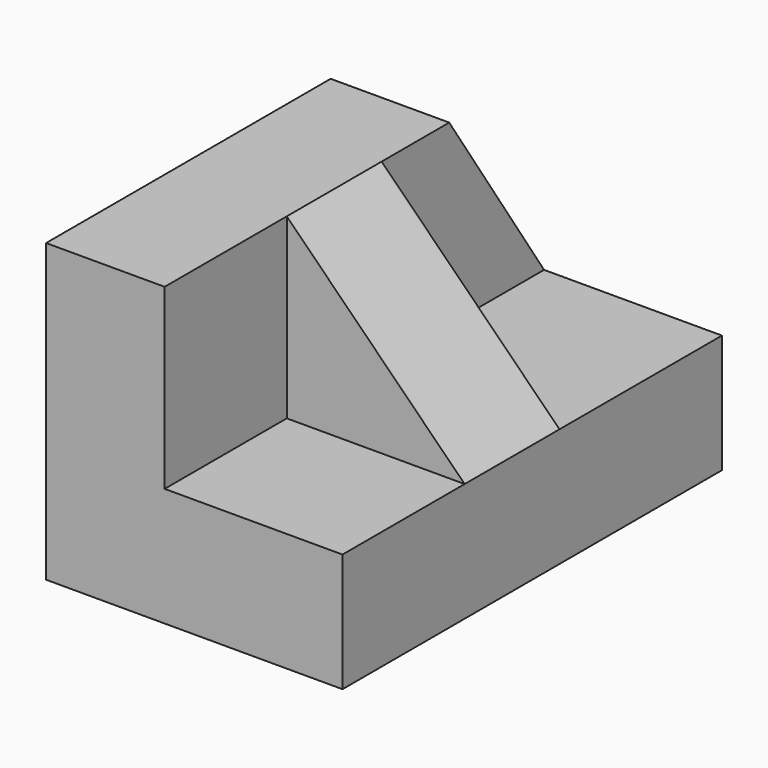
from build123d import *

# Parameters (mm, degrees)
F0_W     = 31.75
F0_H     = 50.8
F1_DEPTH = 12.7
F2_W     = 12.7
F2_H     = 50.8
F3_DEPTH = 19.05
F5_DEPTH = 25.4
F6_W     = 12.7
F6_H     = 19.05
F7_DEPTH = 19.05
F9_DEPTH = 25.4


with BuildPart() as f1:
    # F0 (on Top) → F1 (new body)
    with BuildSketch(Plane.XY):
        with Locations((15.875, 25.4)):
            Rectangle(F0_W, F0_H)
    extrude(amount=F1_DEPTH)

    # F2 (on face) → F3 (join)
    with BuildSketch(Plane.XY.offset(12.7)):
        with Locations((6.35, 25.4)):
            Rectangle(F2_W, F2_H)
    extrude(amount=F3_DEPTH)

    # F4 (on face) → F5 (cut)
    with BuildSketch(Plane.YZ.offset(12.7)):
        Polygon((50.8, 12.7), (50.8, 31.75), (38.1, 31.75), align=None)
    extrude(amount=-F5_DEPTH, mode=Mode.SUBTRACT)

    # F6 (on face) → F7 (join)
    with BuildSketch(Plane.YZ.offset(12.7)):
        with Locations((22.702408, 22.225)):
            Rectangle(F6_W, F6_H)
    extrude(amount=F7_DEPTH)

    # F8 (on face) → F9 (cut)
    with BuildSketch(Plane.XZ.offset(-16.352408)):
        Polygon((31.75, 12.7), (31.75, 31.75), (12.7, 31.75), align=None)
    extrude(amount=-F9_DEPTH, mode=Mode.SUBTRACT)


solid = f1.part
